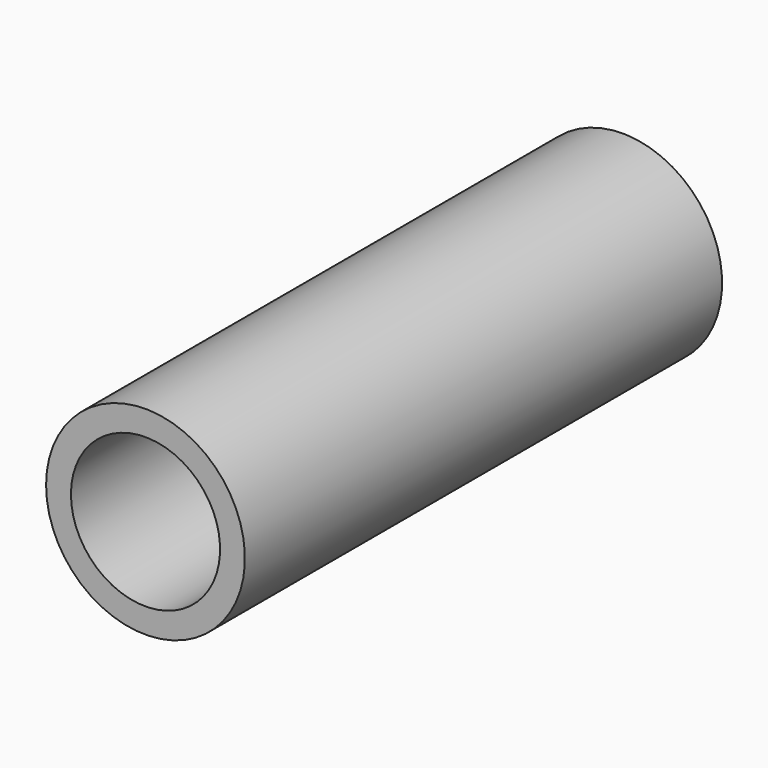
from build123d import *

# Parameters (mm, degrees)
F0_W = 6.35
F0_H = 152.4


with BuildPart() as f1:
    # F0 (on Top) → F1 (revolve)
    with BuildSketch(Plane.XY):
        with Locations((3.175, 76.2)):
            Rectangle(F0_W, F0_H)
        with Locations((3.175, 76.2)):
            Rectangle(F0_W, F0_H)
    revolve(axis=Axis((25.4, 47.663443, 0), (0, 1, 0)))


solid = f1.part
